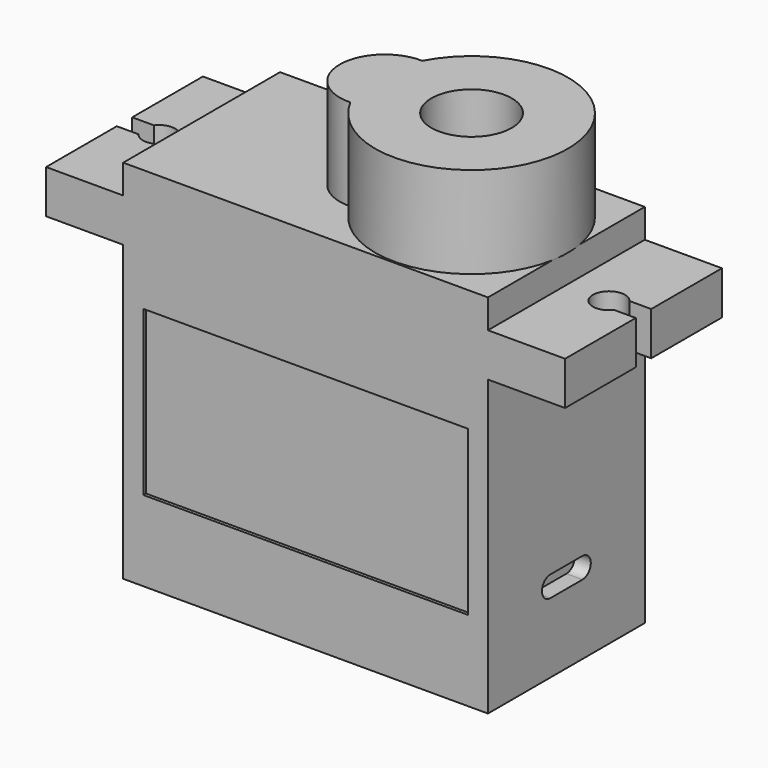
from build123d import *

# Parameters (mm, degrees)
SKETCH_W        = 22.7
SKETCH_H        = 12.2
PAD_DEPTH       = 18.3
PAD001_DEPTH    = 2.7
SKETCH002_W     = 22.7
SKETCH002_H     = 12.2
PAD002_DEPTH    = 4.5
PAD003_DEPTH    = 5.7
SKETCH004_R     = 2.5
POCKET_DEPTH    = 10
POCKET001_DEPTH = 1
SKETCH010_W     = 20.2
SKETCH010_H     = 10.2
POCKET003_DEPTH = 0.2


with BuildPart() as part:
    # Sketch → Pad (new body)
    with BuildSketch(Plane.XY):
        with Locations((-5.45, 0)):
            Rectangle(SKETCH_W, SKETCH_H)
    extrude(amount=-PAD_DEPTH)

    # Sketch001 → Pad001 (join)
    with BuildSketch(Plane.XY):
        with BuildLine():
            Line((-21.6, 6.1), (-21.6, 0.6))
            Line((-20.25, 0.6), (-21.6, 0.6))
            ThreePointArc((-20.25, -0.6), (-18.45, 0), (-20.25, 0.6))
            Line((-20.25, -0.6), (-21.6, -0.6))
            Line((-21.6, -0.6), (-21.6, -6.1))
            Line((-21.6, -6.1), (10.7, -6.1))
            Line((10.7, -6.1), (10.7, -0.6))
            Line((9.35, -0.6), (10.7, -0.6))
            ThreePointArc((9.35, 0.6), (7.55, 0), (9.35, -0.6))
            Line((9.35, 0.6), (10.7, 0.6))
            Line((10.7, 0.6), (10.7, 6.1))
            Line((10.7, 6.1), (-21.6, 6.1))
        make_face()
    extrude(amount=PAD001_DEPTH)

    # Sketch002 → Pad002 (join)
    with BuildSketch(Plane.XY):
        with Locations((-5.45, 0)):
            Rectangle(SKETCH002_W, SKETCH002_H)
    extrude(amount=PAD002_DEPTH)

    # Sketch003 (on Face18 of Pad002) → Pad003 (join)
    with BuildSketch(Plane.XY.offset(4.5)):
        with BuildLine():
            ThreePointArc((-5.307407, -2.798469), (6, 0), (-5.307407, 2.798469))
            ThreePointArc((-5.307407, 2.798469), (-8.2, 0), (-5.307407, -2.798469))
        make_face()
    extrude(amount=PAD003_DEPTH)

    # Sketch004 → Pocket (cut)
    with BuildSketch(Plane.XY.offset(5)):
        Circle(SKETCH004_R)
    extrude(amount=POCKET_DEPTH, mode=Mode.SUBTRACT)

    # Sketch005 (on Face10 of Pocket) → Pocket001 (cut)
    with BuildSketch(Plane.YZ.offset(5.9)):
        with BuildLine():
            ThreePointArc((-1.25, -12.65), (-1.9, -13.3), (-1.25, -13.95))
            Line((-1.25, -13.95), (1.25, -13.95))
            ThreePointArc((1.25, -13.95), (1.9, -13.3), (1.25, -12.65))
            Line((1.25, -12.65), (-1.25, -12.65))
        make_face()
    extrude(amount=-POCKET001_DEPTH, mode=Mode.SUBTRACT)

    # Sketch010 (on Face14 of Pocket001) → Pocket003 (cut)
    with BuildSketch(Plane.XZ.offset(6.1)):
        with Locations((-5.45, -8.2)):
            Rectangle(SKETCH010_W, SKETCH010_H)
    pocket003 = extrude(amount=-POCKET003_DEPTH, mode=Mode.SUBTRACT)

    # Mirrored: Pocket003 across XZ
    add(pocket003.mirror(Plane.XZ), mode=Mode.SUBTRACT)


solid = part.part
